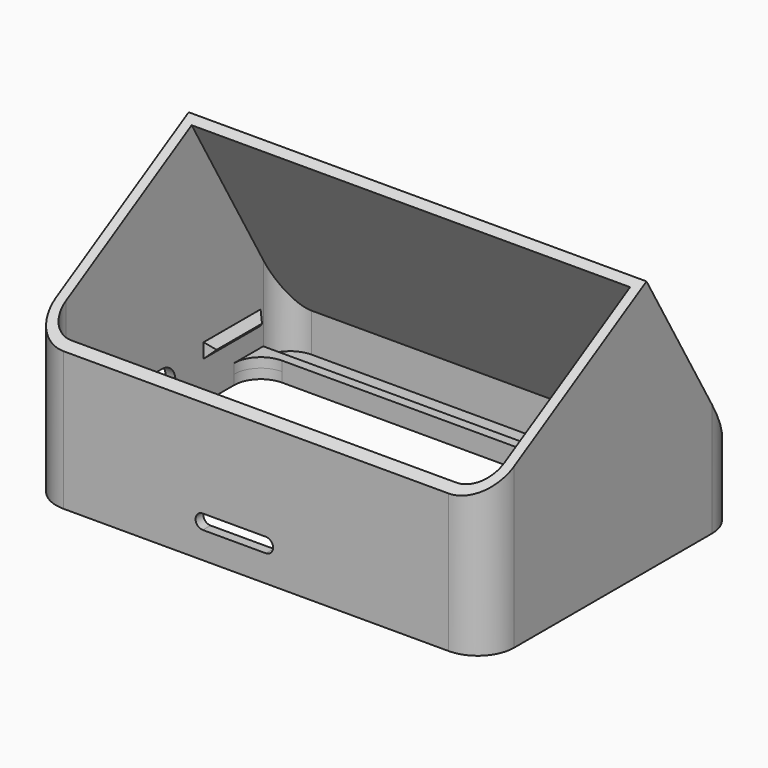
from build123d import *

# Parameters (mm, degrees)
BOX004_W               = 1.5
BOX004_H               = 14.7
BOX004_DEPTH           = 3
CHAMFER001_SIZE        = 1.49
BOX005_W               = 1.5
BOX005_H               = 14.7
BOX005_DEPTH           = 3
CHAMFER002_SIZE        = 1.49
BOX006_W               = 1.5
BOX006_H               = 14.7
BOX006_DEPTH           = 3
CHAMFER003_SIZE        = 1.49
EXTRUDE006_DEPTH       = 3
EXTRUDE005_DEPTH       = 3
BOX001_W               = 100
BOX001_H               = 100
BOX001_DEPTH           = 100
BOX001_PLACEMENT_ANGLE = 30
BOX_W                  = 100
BOX_H                  = 100
BOX_DEPTH              = 100
BOX_PLACEMENT_ANGLE    = 30
EXTRUDE_DEPTH          = 2
EXTRUDE001_DEPTH       = 2
EXTRUDE002_DEPTH       = 10
EXTRUDE003_DEPTH       = 52
EXTRUDE004_DEPTH       = 56
BOX002_W               = 100
BOX002_H               = 2
BOX002_DEPTH           = 100
BOX002_PLACEMENT_ANGLE = 30
BOX003_W               = 1.5
BOX003_H               = 14.7
BOX003_DEPTH           = 3
CHAMFER_SIZE           = 1.49


with BuildPart() as chamfer001:
    # Box004 → Box004 (new body)
    with BuildSketch(Plane(origin=(-45.25, -29, 8), x_dir=(1, 0, 0), z_dir=(0, 0, 1))):
        with Locations((0.75, 7.35)):
            Rectangle(BOX004_W, BOX004_H)
    extrude(amount=BOX004_DEPTH)

    # Chamfer001
    chamfer001_edges = [chamfer001.edges().sort_by_distance(p)[0] for p in [
        (-43.75, -29, 9.5),
        (-43.75, -21.65, 11),
        (-43.75, -14.3, 9.5),
        (-43.75, -21.65, 8),
    ]]
    chamfer(chamfer001_edges, length=CHAMFER001_SIZE)


with BuildPart() as chamfer002:
    # Box005 → Box005 (new body)
    with BuildSketch(Plane(origin=(43.75, 10, 7), x_dir=(1, 0, 0), z_dir=(0, 0, 1))):
        with Locations((0.75, 7.35)):
            Rectangle(BOX005_W, BOX005_H)
    extrude(amount=BOX005_DEPTH)

    # Chamfer002
    chamfer002_edges = [chamfer002.edges().sort_by_distance(p)[0] for p in [
        (43.75, 10, 8.5),
        (43.75, 17.35, 10),
        (43.75, 24.7, 8.5),
        (43.75, 17.35, 7),
    ]]
    chamfer(chamfer002_edges, length=CHAMFER002_SIZE)


with BuildPart() as chamfer003:
    # Box006 → Box006 (new body)
    with BuildSketch(Plane(origin=(-45.25, 10, 8), x_dir=(1, 0, 0), z_dir=(0, 0, 1))):
        with Locations((0.75, 7.35)):
            Rectangle(BOX006_W, BOX006_H)
    extrude(amount=BOX006_DEPTH)

    # Chamfer003
    chamfer003_edges = [chamfer003.edges().sort_by_distance(p)[0] for p in [
        (-43.75, 10, 9.5),
        (-43.75, 17.35, 11),
        (-43.75, 24.7, 9.5),
        (-43.75, 17.35, 8),
    ]]
    chamfer(chamfer003_edges, length=CHAMFER003_SIZE)


with BuildPart() as extrude006:
    # Sketch007 (on Face25 of Cut001) → Extrude006 (new body)
    with BuildSketch(Plane(origin=(-47.25, 0, 0), x_dir=(0, -1, 0), z_dir=(-1, 0, 0))):
        with BuildLine():
            ThreePointArc((0.7500000002, 10.5), (-2.7499999998, 7), (0.7500000002, 3.5))
            Line((0.7500000002, 3.5), (7.7500000002, 3.5))
            ThreePointArc((7.7500000002, 3.5), (11.2500000002, 7), (7.7500000002, 10.5))
            Line((7.7500000002, 10.5), (0.7500000002, 10.5))
        make_face()
    extrude(amount=-EXTRUDE006_DEPTH)


with BuildPart() as extrude005:
    # Sketch006 (on Face43 of Cut001) → Extrude005 (new body)
    with BuildSketch(Plane.XZ.offset(33)):
        with BuildLine():
            ThreePointArc((2, 5.5), (3.5, 7), (2, 8.5))
            Line((2, 8.5), (-11, 8.5))
            ThreePointArc((-11, 8.5), (-12.5, 7), (-11.0000000001, 5.5))
            Line((-11.0000000001, 5.5), (2, 5.5))
        make_face()
    extrude(amount=-EXTRUDE005_DEPTH)


with BuildPart() as cube001:
    # Box001 → Box001 (new body)
    with BuildSketch(Plane.XY):
        with Locations((50, 50)):
            Rectangle(BOX001_W, BOX001_H)
    extrude(amount=BOX001_DEPTH)


with BuildPart() as cube001_1:
    # Box001 placement: moved
    add(cube001.part.moved(Location((-50, -49.5397274573, 19.087357252))).rotate(Axis((-50, -49.5397274573, 19.087357252), (1, 0, 0)), BOX001_PLACEMENT_ANGLE))


with BuildPart() as cube:
    # Box → Box (new body)
    with BuildSketch(Plane.XY):
        with Locations((50, 50)):
            Rectangle(BOX_W, BOX_H)
    extrude(amount=BOX_DEPTH)


with BuildPart() as cube_1:
    # Box placement: moved
    add(cube.part.moved(Location((-50, 39.307179677, -0.4))).rotate(Axis((-50, 39.307179677, -0.4), (1, 0, 0)), BOX_PLACEMENT_ANGLE))


with BuildPart() as extrude_body:
    # Sketch001 → Extrude (new body)
    with BuildSketch(Plane.XY):
        with BuildLine():
            ThreePointArc((-39.75, 33), (-45.0533008589, 30.8033008589), (-47.25, 25.5))
            Line((-47.25, -25.5), (-47.25, 25.5))
            ThreePointArc((-47.25, -25.5), (-45.0533008589, -30.8033008589), (-39.75, -33))
            Line((39.75, -33), (-39.75, -33))
            ThreePointArc((39.75, -33), (45.0533008589, -30.8033008589), (47.25, -25.5))
            Line((47.25, 25.5), (47.25, -25.5))
            ThreePointArc((47.25, 25.5), (45.0533008589, 30.8033008589), (39.75, 33))
            Line((-39.75, 33), (39.75, 33))
        make_face()
        with BuildLine():
            ThreePointArc((-39.75, 23.4), (-43.6390872966, 21.7890872965), (-45.25, 17.8999999999))
            Line((-45.2500000001, -25.5), (-45.2500000001, 17.8999999999))
            ThreePointArc((-45.2500000001, -25.5), (-43.6390872966, -29.3890872965), (-39.7500000001, -31))
            Line((39.75, -31), (-39.7500000001, -31))
            ThreePointArc((39.75, -31), (43.6390872965, -29.3890872966), (45.25, -25.5000000001))
            Line((45.2500000001, 17.9), (45.2500000001, -25.5000000001))
            ThreePointArc((45.2500000001, 17.9), (43.6390872966, 21.7890872965), (39.7500000001, 23.4))
            Line((-39.75, 23.4), (39.7500000001, 23.4))
        make_face(mode=Mode.SUBTRACT)
    extrude(amount=EXTRUDE_DEPTH)


with BuildPart() as extrude_2mm:
    # Sketch002 → Extrude001 (new body)
    with BuildSketch(Plane.XY.offset(2)):
        with BuildLine():
            ThreePointArc((-39.75, 33), (-45.0533008589, 30.8033008589), (-47.25, 25.5))
            Line((-47.25, -25.5), (-47.25, 25.5))
            ThreePointArc((-47.25, -25.5), (-45.0533008589, -30.8033008589), (-39.75, -33))
            Line((39.75, -33), (-39.75, -33))
            ThreePointArc((39.75, -33), (45.0533008589, -30.8033008589), (47.25, -25.5))
            Line((47.25, 25.5), (47.25, -25.5))
            ThreePointArc((47.25, 25.5), (45.0533008589, 30.8033008589), (39.75, 33))
            Line((-39.75, 33), (39.75, 33))
        make_face()
        with BuildLine():
            ThreePointArc((-39.75, 23.4), (-43.6390872965, 21.7890872965), (-45.25, 17.9))
            Line((-45.2500000001, -25.5), (-45.2500000001, 17.9))
            ThreePointArc((-45.2500000001, -25.5), (-43.6390872966, -29.3890872965), (-39.7500000001, -31))
            Line((39.75, -31), (-39.7500000001, -31))
            ThreePointArc((39.75, -31), (43.6390872965, -29.3890872965), (45.25, -25.5))
            Line((45.2500000001, 17.9), (45.2500000001, -25.5))
            ThreePointArc((45.2500000001, 17.9), (43.6390872966, 21.7890872965), (39.7500000001, 23.4))
            Line((-39.75, 23.4), (39.7500000001, 23.4))
        make_face(mode=Mode.SUBTRACT)
        with BuildLine():
            ThreePointArc((-39.75, 31), (-43.6390872965, 29.3890872965), (-45.25, 25.5))
            Line((-45.25, 25.5), (-45.25, 25.4))
            Line((-45.25, 25.4), (45.25, 25.4))
            Line((45.25, 25.5), (45.25, 25.4))
            ThreePointArc((45.25, 25.5), (43.6390857233, 29.3890888697), (39.7499955504, 31))
            Line((-39.75, 31), (39.7499955504, 31))
        make_face(mode=Mode.SUBTRACT)
    extrude(amount=EXTRUDE001_DEPTH)


with BuildPart() as extrude_4mm:
    # Sketch003 → Extrude002 (new body)
    with BuildSketch(Plane.XY.offset(4)):
        with BuildLine():
            ThreePointArc((-39.75, 33), (-45.0533008589, 30.8033008589), (-47.25, 25.5))
            Line((-47.25, -25.5), (-47.25, 25.5))
            ThreePointArc((-47.25, -25.5), (-45.0533008589, -30.8033008589), (-39.75, -33))
            Line((39.75, -33), (-39.75, -33))
            ThreePointArc((39.75, -33), (45.0533008589, -30.8033008589), (47.25, -25.5))
            Line((47.25, 25.5), (47.25, -25.5))
            ThreePointArc((47.25, 25.5), (45.0533008589, 30.8033008589), (39.75, 33))
            Line((-39.75, 33), (39.75, 33))
        make_face()
        with BuildLine():
            ThreePointArc((-39.75, 31), (-43.6390872965, 29.3890872965), (-45.25, 25.5))
            Line((-45.25, -25.5), (-45.25, 25.5))
            ThreePointArc((-45.25, -25.5), (-43.6390872965, -29.3890872965), (-39.75, -31))
            Line((39.75, -31), (-39.75, -31))
            ThreePointArc((39.75, -31), (43.6390872965, -29.3890872965), (45.25, -25.5))
            Line((45.25, 25.5), (45.25, -25.5))
            ThreePointArc((45.25, 25.5), (43.6390872965, 29.3890872965), (39.75, 31))
            Line((-39.75, 31), (39.75, 31))
        make_face(mode=Mode.SUBTRACT)
    extrude(amount=EXTRUDE002_DEPTH)


with BuildPart() as extrude_6mm:
    # Sketch003 → Extrude003 (new body)
    with BuildSketch(Plane.XY.offset(4)):
        with BuildLine():
            ThreePointArc((-39.75, 33), (-45.0533008589, 30.8033008589), (-47.25, 25.5))
            Line((-47.25, -25.5), (-47.25, 25.5))
            ThreePointArc((-47.25, -25.5), (-45.0533008589, -30.8033008589), (-39.75, -33))
            Line((39.75, -33), (-39.75, -33))
            ThreePointArc((39.75, -33), (45.0533008589, -30.8033008589), (47.25, -25.5))
            Line((47.25, 25.5), (47.25, -25.5))
            ThreePointArc((47.25, 25.5), (45.0533008589, 30.8033008589), (39.75, 33))
            Line((-39.75, 33), (39.75, 33))
        make_face()
        with BuildLine():
            ThreePointArc((-39.75, 31), (-43.6390872965, 29.3890872965), (-45.25, 25.5))
            Line((-45.25, -25.5), (-45.25, 25.5))
            ThreePointArc((-45.25, -25.5), (-43.6390872965, -29.3890872965), (-39.75, -31))
            Line((39.75, -31), (-39.75, -31))
            ThreePointArc((39.75, -31), (43.6390872965, -29.3890872965), (45.25, -25.5))
            Line((45.25, 25.5), (45.25, -25.5))
            ThreePointArc((45.25, 25.5), (43.6390872965, 29.3890872965), (39.75, 31))
            Line((-39.75, 31), (39.75, 31))
        make_face(mode=Mode.SUBTRACT)
    extrude(amount=EXTRUDE003_DEPTH)


with BuildPart() as extrude004:
    # Sketch004 → Extrude004 (new body)
    with BuildSketch(Plane.XY):
        with BuildLine():
            ThreePointArc((-39.75, 33), (-45.0533008589, 30.8033008589), (-47.25, 25.5))
            Line((-47.25, -25.5), (-47.25, 25.5))
            ThreePointArc((-47.25, -25.5), (-45.0533008589, -30.8033008589), (-39.75, -33))
            Line((39.75, -33), (-39.75, -33))
            ThreePointArc((39.75, -33), (45.0533008589, -30.8033008589), (47.25, -25.5))
            Line((47.25, 25.5), (47.25, -25.5))
            ThreePointArc((47.25, 25.5), (45.0533008589, 30.8033008589), (39.75, 33))
            Line((-39.75, 33), (39.75, 33))
        make_face()
    extrude(amount=EXTRUDE004_DEPTH)


with BuildPart() as cut003:
    # Box002 → Box002 (new body)
    with BuildSketch(Plane.XY):
        with Locations((50, 1)):
            Rectangle(BOX002_W, BOX002_H)
    extrude(amount=BOX002_DEPTH)


with BuildPart() as cut003_1:
    # Box002 placement: moved
    add(cut003.part.moved(Location((-50, 37.5751288694, -1.4))).rotate(Axis((-50, 37.5751288694, -1.4), (1, 0, 0)), BOX002_PLACEMENT_ANGLE))

    # Common: intersect Extrude004
    add(extrude004.part, mode=Mode.INTERSECT)

    # Fusion: union Extrude body, Extrude_2mm, Extrude_4mm, Extrude_6mm
    add(extrude_body.part)
    add(extrude_2mm.part)
    add(extrude_4mm.part)
    add(extrude_6mm.part)

    # Cut: cut Cube
    add(cube_1.part, mode=Mode.SUBTRACT)

    # Cut001: cut Cube001
    add(cube001_1.part, mode=Mode.SUBTRACT)

    # Cut002: cut Extrude005
    add(extrude005.part, mode=Mode.SUBTRACT)

    # Cut003: cut Extrude006
    add(extrude006.part, mode=Mode.SUBTRACT)


with BuildPart() as main:
    # Box003 → Box003 (new body)
    with BuildSketch(Plane(origin=(43.75, -29, 7), x_dir=(1, 0, 0), z_dir=(0, 0, 1))):
        with Locations((0.75, 7.35)):
            Rectangle(BOX003_W, BOX003_H)
    extrude(amount=BOX003_DEPTH)

    # Chamfer
    chamfer_edges = [main.edges().sort_by_distance(p)[0] for p in [
        (43.75, -29, 8.5),
        (43.75, -21.65, 10),
        (43.75, -14.3, 8.5),
        (43.75, -21.65, 7),
    ]]
    chamfer(chamfer_edges, length=CHAMFER_SIZE)

    # Connect: union Chamfer001, Chamfer002, Chamfer003, Cut003
    add(chamfer001.part)
    add(chamfer002.part)
    add(chamfer003.part)
    add(cut003_1.part)


solid = main.part
